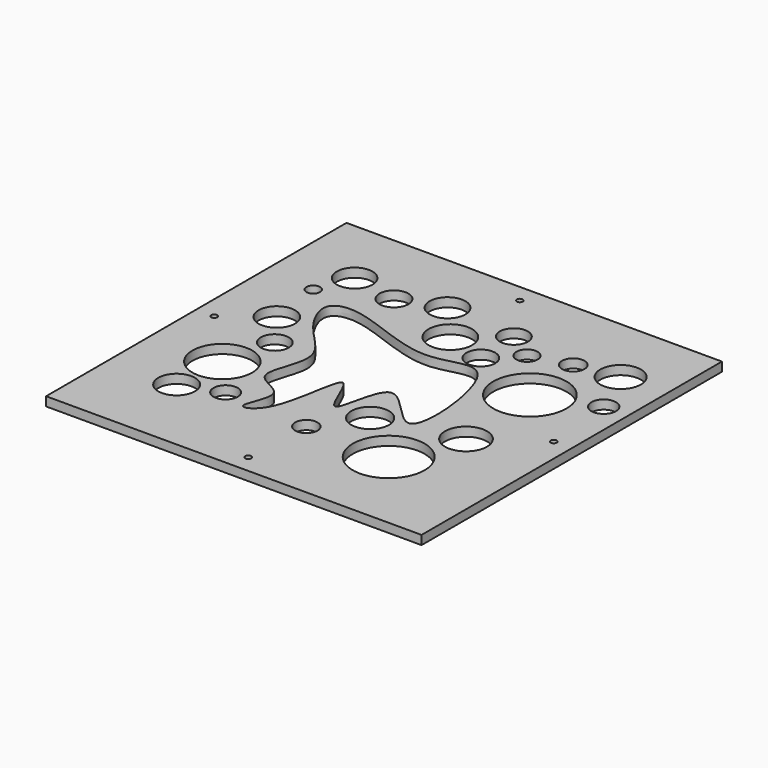
from build123d import *

# Parameters (mm, degrees)
F0_W     = 125
F0_H     = 125
F0_R     = 6.1086912078
F0_R_2   = 4.0211800756
F0_R_3   = 9.9524482911
F0_R_4   = 4.6578776041
F0_R_5   = 1
F0_R_6   = 3.7201478129
F0_R_7   = 11.9656194279
F0_R_8   = 6.2787404451
F0_R_9   = 6.9940159428
F0_R_10  = 6.0679102688
F0_R_11  = 2.2937218128
F0_R_12  = 7.2500950479
F0_R_13  = 5.9330106418
F0_R_14  = 4.8080567572
F0_R_15  = 5.9668424885
F0_R_16  = 4.778250777
F0_R_17  = 12.1958938578
F0_R_18  = 4.0844737817
F0_R_19  = 4.6637617279
F0_R_20  = 3.5317623362
F0_R_21  = 3.7379935964
F0_R_22  = 6.776469557
F1_DEPTH = 3


with BuildPart() as f1:
    # F0 (on Top) → F1 (new body)
    with BuildSketch(Plane.XY):
        with Locations((-32.8445509076, -0.9498894215)):
            Rectangle(F0_W, F0_H)
        with Locations((-72.9466825724, -37.1108055115)):
            Circle(F0_R, mode=Mode.SUBTRACT)
        with Locations((-60.252096504, -32.593511045)):
            Circle(F0_R_2, mode=Mode.SUBTRACT)
        with Locations((-71.757145226, -19.5798519999)):
            Circle(F0_R_3, mode=Mode.SUBTRACT)
        with Locations((-67.8085014224, -2.6794858277)):
            Circle(F0_R_4, mode=Mode.SUBTRACT)
        with BuildLine():
            add(Edge.make_bspline(
                [(-61.1504539847, 24.0039974451), (-65.5747458062, 24.7711965362), (-72.990857609, 22.9988589342), (-65.3549751292, 7.9315382336), (-50.9903677339, -2.2323641768), (-63.2915436568, -21.0605475214), (-45.6260920725, -23.0680739896), (-55.5131520794, -38.4524486258), (-42.5036286901, -33.386622973), (-41.9142402701, 4.1347139785), (-31.4179336593, -33.1643895067), (-30.0846044948, 7.197097797), (-5.4222597189, -33.8876247106), (-11.529899323, 27.1261570713), (-32.6052328815, 10.9642549731), (-53.0332294242, 22.5964213727), (-61.1504539847, 24.0039974451)],
                knots=[0, 0, 0, 0, 0.0537787692, 0.1191016351, 0.1913947982, 0.2615056844, 0.3187831164, 0.3764711279, 0.4239380696, 0.5106225203, 0.576414883, 0.6488011262, 0.7254013855, 0.8282851185, 0.9013323795, 1, 1, 1, 1], degree=3))
        make_face(mode=Mode.SUBTRACT)
        with Locations((-32.8445509076, -57.4498894215)):
            Circle(F0_R_5, mode=Mode.SUBTRACT)
        with Locations((-31.8651087582, -34.5039367676)):
            Circle(F0_R_6, mode=Mode.SUBTRACT)
        with Locations((-4.4381869957, -34.5039367676)):
            Circle(F0_R_7, mode=Mode.SUBTRACT)
        with Locations((-21.916301921, -20.3858539462)):
            Circle(F0_R_8, mode=Mode.SUBTRACT)
        with Locations((4.9320035614, -14.0389883891)):
            Circle(F0_R_9, mode=Mode.SUBTRACT)
        with Locations((-89.3445509076, -0.9498894215)):
            Circle(F0_R_5, mode=Mode.SUBTRACT)
        with Locations((-76.3775855303, 8.8601699099)):
            Circle(F0_R_10, mode=Mode.SUBTRACT)
        with Locations((-78.6413550377, 26.8415363674)):
            Circle(F0_R_11, mode=Mode.SUBTRACT)
        with Locations((-34.0681448579, 28.1914547086)):
            Circle(F0_R_12, mode=Mode.SUBTRACT)
        with Locations((-74.2605552077, 38.6038869619)):
            Circle(F0_R_13, mode=Mode.SUBTRACT)
        with Locations((-58.9605271816, 35.8405821025)):
            Circle(F0_R_14, mode=Mode.SUBTRACT)
        with Locations((-44.9482835829, 40.6224727631)):
            Circle(F0_R_15, mode=Mode.SUBTRACT)
        with Locations((-32.8445509076, 55.5501105785)):
            Circle(F0_R_5, mode=Mode.SUBTRACT)
        with Locations((-20.5276142806, 23.9543709904)):
            Circle(F0_R_16, mode=Mode.SUBTRACT)
        with Locations((23.6554490924, -0.9498894215)):
            Circle(F0_R_5, mode=Mode.SUBTRACT)
        with Locations((2.4339649826, 15.6679600477)):
            Circle(F0_R_17, mode=Mode.SUBTRACT)
        with Locations((21.5325765312, 22.5142128766)):
            Circle(F0_R_18, mode=Mode.SUBTRACT)
        with Locations((-21.3732104748, 38.752861321)):
            Circle(F0_R_19, mode=Mode.SUBTRACT)
        with Locations((-11.9875697419, 32.4957706034)):
            Circle(F0_R_20, mode=Mode.SUBTRACT)
        with Locations((0.675595249, 35.9222739935)):
            Circle(F0_R_21, mode=Mode.SUBTRACT)
        with Locations((14.5305916667, 38.305927068)):
            Circle(F0_R_22, mode=Mode.SUBTRACT)
    extrude(amount=F1_DEPTH)


solid = f1.part
